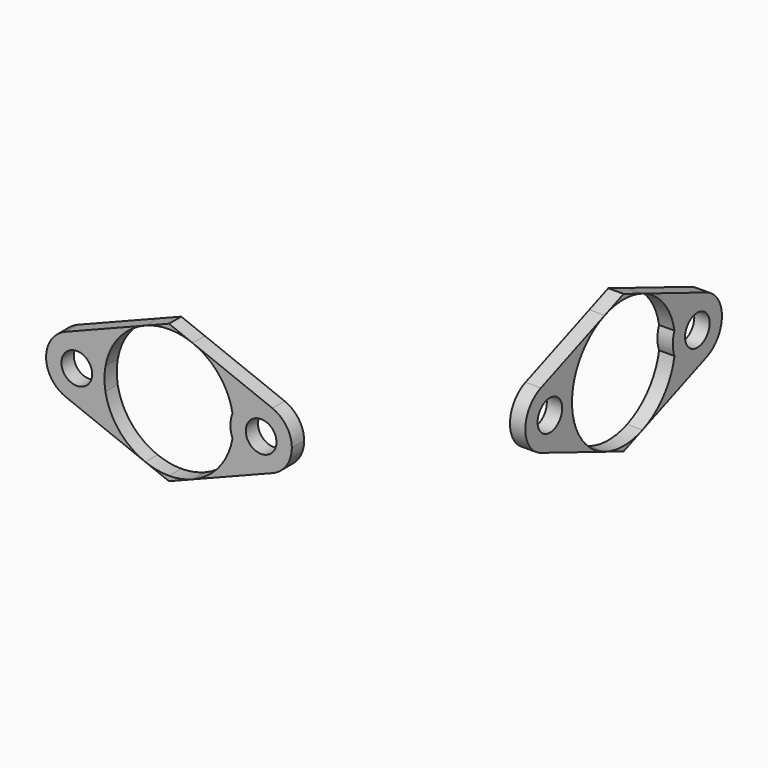
from build123d import *

# Parameters (mm, degrees)
F3_R     = 10
F4_DEPTH = 10
F5_DEPTH = 10
F0_R     = 10


with BuildPart() as f4:
    # F3 (on offset) → F4 (new body)
    with BuildSketch(Plane.XZ.offset(160)):
        with BuildLine():
            ThreePointArc((-191.3666666667, 7.2662843936), (-182.5355038075, 26.5601391561), (-165.3999990784, 39.0748004267))
            Line((-165.3999990784, 39.0748004267), (-217.3333333333, 18.6070476493))
            ThreePointArc((-217.3333333333, 18.6070476493), (-201.9952684114, 18.3282370182), (-191.3666666667, 7.2662843936))
        make_face()
        with BuildLine():
            Line((-217.3333333333, -18.6070476493), (-165.4000014498, -39.0747994921))
            ThreePointArc((-165.4000014498, -39.0747994921), (-182.5355046135, -26.5601381688), (-191.3666666667, -7.2662843936))
            ThreePointArc((-191.3666666667, -7.2662843936), (-201.9952684114, -18.3282370182), (-217.3333333333, -18.6070476493))
        make_face()
        with BuildLine():
            ThreePointArc((-191.3666666667, -7.2662843936), (-192, 0), (-191.3666666667, 7.2662843936))
            ThreePointArc((-191.3666666667, 7.2662843936), (-201.9952684114, 18.3282370182), (-217.3333333333, 18.6070476493))
            ThreePointArc((-217.3333333333, 18.6070476493), (-230, 0), (-217.3333333333, -18.6070476493))
            ThreePointArc((-217.3333333333, -18.6070476493), (-201.9952684114, -18.3282370182), (-191.3666666667, -7.2662843936))
        make_face()
        with Locations((-210, 0)):
            Circle(F3_R, mode=Mode.SUBTRACT)
    extrude(amount=F4_DEPTH)


with BuildPart() as f4b:
    # F3 (on offset) → F4, piece 2 (new body)
    with BuildSketch(Plane.XZ.offset(160)):
        with BuildLine():
            Line((-82.6666666667, 18.6070476493), (-134.5999997898, 39.0747999806))
            ThreePointArc((-134.5999997898, 39.0747999806), (-117.4644958078, 26.5601386849), (-108.6333333333, 7.2662843936))
            ThreePointArc((-108.6333333333, 7.2662843936), (-98.0047315886, 18.3282370182), (-82.6666666667, 18.6070476493))
        make_face()
        with BuildLine():
            ThreePointArc((-108.6333333333, -7.2662843936), (-117.4644959547, -26.5601388649), (-134.6000002221, -39.074800151))
            Line((-134.6000002221, -39.074800151), (-82.6666666667, -18.6070476493))
            ThreePointArc((-82.6666666667, -18.6070476493), (-98.0047315886, -18.3282370182), (-108.6333333333, -7.2662843936))
        make_face()
        with BuildLine():
            ThreePointArc((-82.6666666667, 18.6070476493), (-98.0047315886, 18.3282370182), (-108.6333333333, 7.2662843936))
            ThreePointArc((-108.6333333333, 7.2662843936), (-108.1586329095, 3.6469165058), (-108, 0))
            ThreePointArc((-108, 0), (-108.1586329095, -3.6469165058), (-108.6333333333, -7.2662843936))
            ThreePointArc((-108.6333333333, -7.2662843936), (-98.0047315886, -18.3282370182), (-82.6666666667, -18.6070476493))
            ThreePointArc((-82.6666666667, -18.6070476493), (-73.4672043098, -11.2546286774), (-70, 0))
            ThreePointArc((-70, 0), (-73.4672043098, 11.2546286774), (-82.6666666667, 18.6070476493))
        make_face()
        with Locations((-90, 0)):
            Circle(F3_R, mode=Mode.SUBTRACT)
        with BuildLine():
            ThreePointArc((-108, 0), (-108.1586329095, 3.6469165058), (-108.6333333333, 7.2662843936))
            ThreePointArc((-108.6333333333, 7.2662843936), (-110, 0), (-108.6333333333, -7.2662843936))
            ThreePointArc((-108.6333333333, -7.2662843936), (-108.1586329095, -3.6469165058), (-108, 0))
        make_face()
    extrude(amount=F4_DEPTH)


with BuildPart() as f4c:
    # F3 (on offset) → F4, piece 3 (new body)
    with BuildSketch(Plane.XZ.offset(160)):
        with BuildLine():
            ThreePointArc((-165.3999990784, 39.0748004267), (-157.837677656, 41.2622201167), (-150, 42))
            Line((-150, 42), (-150, 45.1441849257))
            Line((-150, 45.1441849257), (-165.3999990784, 39.0748004267))
        make_face()
        with BuildLine():
            Line((-150, 45.1441849257), (-150, 42))
            ThreePointArc((-150, 42), (-142.1623217464, 41.2622200032), (-134.5999997898, 39.0747999806))
            Line((-134.5999997898, 39.0747999806), (-150, 45.1441849257))
        make_face()
    extrude(amount=F4_DEPTH)


with BuildPart() as f4d:
    # F3 (on offset) → F4, piece 4 (new body)
    with BuildSketch(Plane.XZ.offset(160)):
        with BuildLine():
            Line((-150, -45.1441849257), (-150, -42))
            ThreePointArc((-150, -42), (-157.8376789081, -41.2622198789), (-165.4000014498, -39.0747994921))
            Line((-165.4000014498, -39.0747994921), (-150, -45.1441849257))
        make_face()
        with BuildLine():
            ThreePointArc((-134.6000002221, -39.074800151), (-142.1623219746, -41.2622200466), (-150, -42))
            Line((-150, -42), (-150, -45.1441849257))
            Line((-150, -45.1441849257), (-134.6000002221, -39.074800151))
        make_face()
    extrude(amount=F4_DEPTH)


with BuildPart() as f5:
    # F0 (on Right) → F5 (new body)
    with BuildSketch(Plane.YZ):
        with BuildLine():
            ThreePointArc((-15.3999997771, 39.0748001513), (-3.545e-07, 42), (15.3999991174, 39.0748004113))
            Line((15.3999991174, 39.0748004113), (0, 45.1441849257))
            Line((0, 45.1441849257), (-15.3999997771, 39.0748001513))
        make_face()
    extrude(amount=F5_DEPTH)


with BuildPart() as f5b:
    # F0 (on Right) → F5, piece 2 (new body)
    with BuildSketch(Plane.YZ):
        with BuildLine():
            ThreePointArc((-41.3666666667, 7.2662843936), (-32.535504045, 26.5601388652), (-15.3999997771, 39.0748001513))
            Line((-15.3999997771, 39.0748001513), (-67.3333335684, 18.6070475566))
            ThreePointArc((-67.3333335684, 18.6070475566), (-51.9952685272, 18.3282370687), (-41.3666666667, 7.2662843936))
        make_face()
        with BuildLine():
            Line((-67.3333333845, -18.6070476291), (-15.4000000451, -39.0748000457))
            ThreePointArc((-15.4000000451, -39.0748000457), (-32.5355041361, -26.5601387536), (-41.3666666667, -7.2662843936))
            ThreePointArc((-41.3666666667, -7.2662843936), (-51.9952684366, -18.3282370292), (-67.3333333845, -18.6070476291))
        make_face()
        with BuildLine():
            ThreePointArc((-41.3666666667, -7.2662843936), (-42, 0), (-41.3666666667, 7.2662843936))
            ThreePointArc((-41.3666666667, 7.2662843936), (-51.9952685272, 18.3282370687), (-67.3333335684, 18.6070475566))
            ThreePointArc((-67.3333335684, 18.6070475566), (-80, -9.88e-08), (-67.3333333845, -18.6070476291))
            ThreePointArc((-67.3333333845, -18.6070476291), (-51.9952684366, -18.3282370292), (-41.3666666667, -7.2662843936))
        make_face()
        with Locations((-60, 0)):
            Circle(F0_R, mode=Mode.SUBTRACT)
    extrude(amount=F5_DEPTH)


with BuildPart() as f5c:
    # F0 (on Right) → F5, piece 3 (new body)
    with BuildSketch(Plane.YZ):
        with BuildLine():
            ThreePointArc((15.3999991174, 39.0748004113), (32.5355038208, 26.5601391399), (41.3666666667, 7.2662843936))
            ThreePointArc((41.3666666667, 7.2662843936), (51.9952686178, 18.3282371083), (67.3333337523, 18.6070474842))
            Line((67.3333337523, 18.6070474842), (15.3999991174, 39.0748004113))
        make_face()
        with BuildLine():
            ThreePointArc((41.3666666667, 7.2662843936), (41.8413670905, 3.6469165058), (42, 0))
            ThreePointArc((42, 0), (41.8413670905, -3.6469165058), (41.3666666667, -7.2662843936))
            ThreePointArc((41.3666666667, -7.2662843936), (51.9952685272, -18.3282370687), (67.3333335684, -18.6070475566))
            ThreePointArc((67.3333335684, -18.6070475566), (76.5327957613, -11.254628573), (80, 0))
            ThreePointArc((80, 0), (76.5327958169, 11.2546284913), (67.3333337523, 18.6070474842))
            ThreePointArc((67.3333337523, 18.6070474842), (51.9952686178, 18.3282371083), (41.3666666667, 7.2662843936))
        make_face()
        with Locations((60, 0)):
            Circle(F0_R, mode=Mode.SUBTRACT)
        with BuildLine():
            ThreePointArc((41.3666666667, -7.2662843936), (41.8413670905, -3.6469165058), (42, 0))
            ThreePointArc((42, 0), (41.8413670905, 3.6469165058), (41.3666666667, 7.2662843936))
            ThreePointArc((41.3666666667, 7.2662843936), (40, 0), (41.3666666667, -7.2662843936))
        make_face()
        with BuildLine():
            ThreePointArc((67.3333335684, -18.6070475566), (51.9952685272, -18.3282370687), (41.3666666667, -7.2662843936))
            ThreePointArc((41.3666666667, -7.2662843936), (32.535504191, -26.5601386863), (15.4000002067, -39.074799982))
            Line((15.4000002067, -39.074799982), (67.3333335684, -18.6070475566))
        make_face()
    extrude(amount=F5_DEPTH)


with BuildPart() as f5d:
    # F0 (on Right) → F5, piece 4 (new body)
    with BuildSketch(Plane.YZ):
        with BuildLine():
            Line((0, -45.1441849257), (15.4000002067, -39.074799982))
            ThreePointArc((15.4000002067, -39.074799982), (8.69e-08, -42), (-15.4000000451, -39.0748000457))
            Line((-15.4000000451, -39.0748000457), (0, -45.1441849257))
        make_face()
    extrude(amount=F5_DEPTH)


solid = Compound([f4.part, f4b.part, f4c.part, f4d.part, f5.part, f5b.part, f5c.part, f5d.part])
